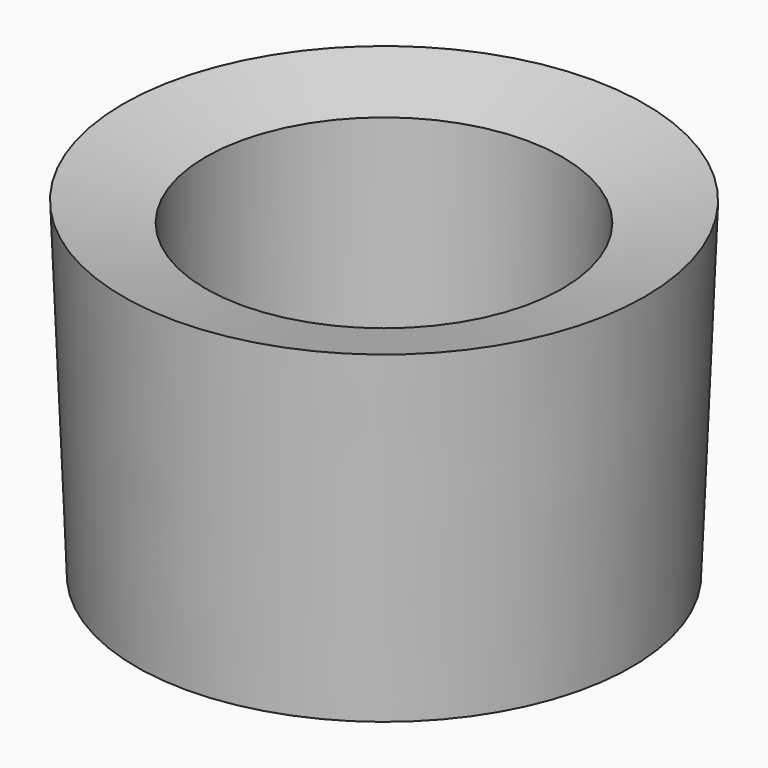
from build123d import *

# Parameters (mm, degrees)
F1_FACE_R = 27
F2_DEPTH  = 5


with BuildPart() as f1:
    # F0 (on Right) → F1 (revolve)
    with BuildSketch(Plane.YZ):
        Polygon((-27, 47), (-39.5, 50), (-37.5, 0), (0, 0), (0, 3), (-27, 3), align=None)
    revolve(axis=Axis((0, 0, 1.5), (0, 0, -1)))

    # F1_face (on face) → F2 (join)
    with BuildSketch(Plane.XY.offset(3)):
        Circle(F1_FACE_R)
    extrude(amount=F2_DEPTH)


solid = f1.part
